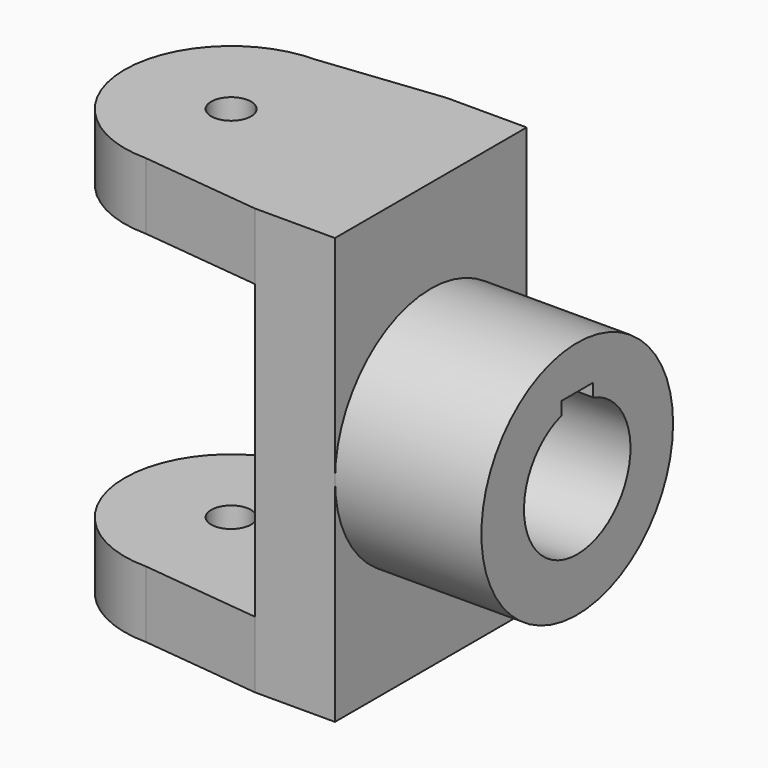
from build123d import *

# Parameters (mm, degrees)
F0_W     = 18
F0_H     = 32
F1_DEPTH = 6
F2_R     = 1.5
F3_DEPTH = 5
F5_R     = 9
F6_DEPTH = 11


with BuildPart() as f1:
    # F0 (on Right) → F1 (new body)
    with BuildSketch(Plane.YZ):
        Rectangle(F0_W, F0_H)
    extrude(amount=-F1_DEPTH)

    # F2 (on face) → F3 (join)
    with BuildSketch(Plane.XY.offset(16)):
        with BuildLine():
            Line((-6, 9), (-15, 8))
            ThreePointArc((-15, 8), (-23, 0), (-15, -8))
            Line((-15, -8), (-6, -9))
            Line((-6, -9), (-6, 9))
        make_face()
        with Locations((-15, 0)):
            Circle(F2_R, mode=Mode.SUBTRACT)
    extrude(amount=-F3_DEPTH)

    # F4: F1 across plane


with BuildPart() as f1_1:
    add(f1.part)
    add(f1.part.mirror(Plane.XY))

    # F5 (on face) → F6 (join)
    with BuildSketch(Plane.YZ):
        Circle(F5_R)
        with BuildLine():
            ThreePointArc((1.5, 4.769696), (0, -5), (-1.5, 4.769696))
            Line((-1.5, 4.769696), (-1.5, 5.75))
            Line((-1.5, 5.75), (1.5, 5.75))
            Line((1.5, 5.75), (1.5, 4.769696))
        make_face(mode=Mode.SUBTRACT)
    extrude(amount=F6_DEPTH)


solid = f1_1.part
